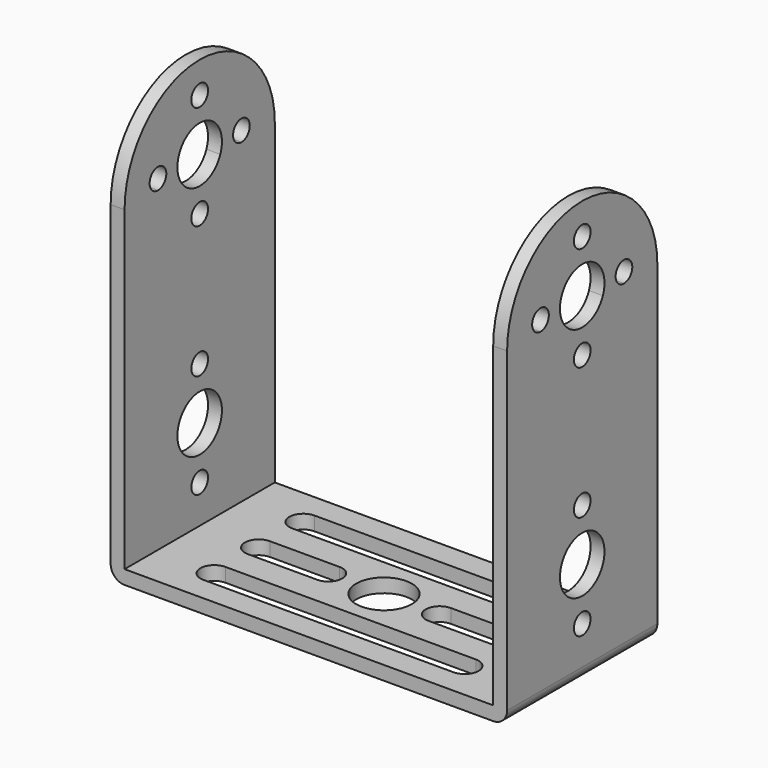
from build123d import *

# Parameters (mm, degrees)
F0_W     = 57
F0_H     = 27
F0_R     = 4
F5_DEPTH = 2
F4_R     = 1.5
F4_R_2   = 4
F6_DEPTH = 2
F3_R     = 1.5
F3_R_2   = 4
F7_DEPTH = 2
F8_R     = 2


with BuildPart() as f5:
    # F0 (on Top) → F5 (new body)
    with BuildSketch(Plane.XY):
        Rectangle(F0_W, F0_H)
        with BuildLine():
            ThreePointArc((-18, -10), (-20, -8), (-18, -6))
            Line((-18, -6), (18, -6))
            ThreePointArc((18, -6), (20, -8), (18, -10))
            Line((18, -10), (-18, -10))
        make_face(mode=Mode.SUBTRACT)
        with BuildLine():
            ThreePointArc((-18, -2), (-20, 0), (-18, 2))
            Line((-18, 2), (-8, 2))
            ThreePointArc((-8, 2), (-6, 0), (-8, -2))
            Line((-8, -2), (-18, -2))
        make_face(mode=Mode.SUBTRACT)
        Circle(F0_R, mode=Mode.SUBTRACT)
        with BuildLine():
            ThreePointArc((8, -2), (6, 0), (8, 2))
            Line((8, 2), (18, 2))
            ThreePointArc((18, 2), (20, 0), (18, -2))
            Line((18, -2), (8, -2))
        make_face(mode=Mode.SUBTRACT)
        with BuildLine():
            ThreePointArc((-18, 6), (-20, 8), (-18, 10))
            Line((-18, 10), (18, 10))
            ThreePointArc((18, 10), (20, 8), (18, 6))
            Line((18, 6), (-18, 6))
        make_face(mode=Mode.SUBTRACT)
    extrude(amount=F5_DEPTH)

    # F4 (on line) → F6 (join)
    with BuildSketch(Plane(origin=(-28.5, 0, 0), x_dir=(0, -1, 0), z_dir=(-1, 0, 0))):
        with BuildLine():
            Line((-13.5, 0), (13.5, 0))
            Line((13.5, 0), (13.5, 47.5))
            Line((13.5, 47.5), (7.5, 47.5))
            Line((7.5, 47.5), (3.7080992435, 47.5))
            ThreePointArc((3.7080992435, 47.5), (0, 45), (-3.7080992435, 47.5))
            Line((-3.7080992435, 47.5), (-7.5000000039, 47.5))
            Line((-7.5000000039, 47.5), (-13.5, 47.5))
            Line((-13.5, 47.5), (-13.5, 0))
        make_face()
        with Locations((0, 7.5)):
            Circle(F4_R, mode=Mode.SUBTRACT)
        with Locations((0, 15)):
            Circle(F4_R_2, mode=Mode.SUBTRACT)
        with Locations((0, 22.5)):
            Circle(F4_R, mode=Mode.SUBTRACT)
        with Locations((0, 41.5)):
            Circle(F4_R, mode=Mode.SUBTRACT)
        with BuildLine():
            Line((7.5, 47.5), (13.5, 47.5))
            ThreePointArc((13.5, 47.5), (0, 61), (-13.5, 47.5))
            Line((-13.5, 47.5), (-7.5000000039, 47.5))
            Line((-7.5000000039, 47.5), (-3.7080992435, 47.5))
            ThreePointArc((-3.7080992435, 47.5), (-0.7640690498, 52.92634671), (4, 49))
            ThreePointArc((4, 49), (3.92634671, 48.2359309502), (3.7080992435, 47.5))
            Line((3.7080992435, 47.5), (7.5, 47.5))
        make_face()
        with BuildLine():
            ThreePointArc((-6, 49), (-6.4393398296, 47.9393398268), (-7.5000000039, 47.5))
            ThreePointArc((-7.5000000039, 47.5), (-8.5606601704, 50.0606601732), (-6, 49))
        make_face(mode=Mode.SUBTRACT)
        with Locations((0, 56.5)):
            Circle(F4_R, mode=Mode.SUBTRACT)
        with BuildLine():
            ThreePointArc((9, 49), (8.5606601718, 47.9393398282), (7.5, 47.5))
            ThreePointArc((7.5, 47.5), (6.4393398282, 50.0606601718), (9, 49))
        make_face(mode=Mode.SUBTRACT)
    extrude(amount=-F6_DEPTH)

    # F3 (on line) → F7 (join)
    with BuildSketch(Plane(origin=(28.5, 0, 0), x_dir=(0, -1, 0), z_dir=(-1, 0, 0))):
        with BuildLine():
            Line((-13.5, 0), (13.5, 0))
            Line((13.5, 0), (13.5, 47.5))
            Line((13.5, 47.5), (7.5, 47.5))
            Line((7.5, 47.5), (3.7080992435, 47.5))
            ThreePointArc((3.7080992435, 47.5), (0, 45), (-3.7080992435, 47.5))
            Line((-3.7080992435, 47.5), (-7.5000000039, 47.5))
            Line((-7.5000000039, 47.5), (-13.5, 47.5))
            Line((-13.5, 47.5), (-13.5, 0))
        make_face()
        with Locations((0, 7.5)):
            Circle(F3_R, mode=Mode.SUBTRACT)
        with Locations((0, 15)):
            Circle(F3_R_2, mode=Mode.SUBTRACT)
        with Locations((0, 22.5)):
            Circle(F3_R, mode=Mode.SUBTRACT)
        with Locations((0, 41.5)):
            Circle(F3_R, mode=Mode.SUBTRACT)
        with BuildLine():
            Line((7.5, 47.5), (13.5, 47.5))
            ThreePointArc((13.5, 47.5), (0, 61), (-13.5, 47.5))
            Line((-13.5, 47.5), (-7.5000000039, 47.5))
            Line((-7.5000000039, 47.5), (-3.7080992435, 47.5))
            ThreePointArc((-3.7080992435, 47.5), (-0.7640690498, 52.92634671), (4, 49))
            ThreePointArc((4, 49), (3.92634671, 48.2359309502), (3.7080992435, 47.5))
            Line((3.7080992435, 47.5), (7.5, 47.5))
        make_face()
        with BuildLine():
            ThreePointArc((-6, 49), (-6.4393398296, 47.9393398268), (-7.5000000039, 47.5))
            ThreePointArc((-7.5000000039, 47.5), (-8.5606601704, 50.0606601732), (-6, 49))
        make_face(mode=Mode.SUBTRACT)
        with Locations((0, 56.5)):
            Circle(F3_R, mode=Mode.SUBTRACT)
        with BuildLine():
            ThreePointArc((9, 49), (8.5606601718, 47.9393398282), (7.5, 47.5))
            ThreePointArc((7.5, 47.5), (6.4393398282, 50.0606601718), (9, 49))
        make_face(mode=Mode.SUBTRACT)
    extrude(amount=F7_DEPTH)

    # F8
    f8_edges = [f5.edges().sort_by_distance(p)[0] for p in [
        (-28.5, 0, 0),
        (28.5, 0, 0),
    ]]
    fillet(f8_edges, radius=F8_R)


solid = f5.part
